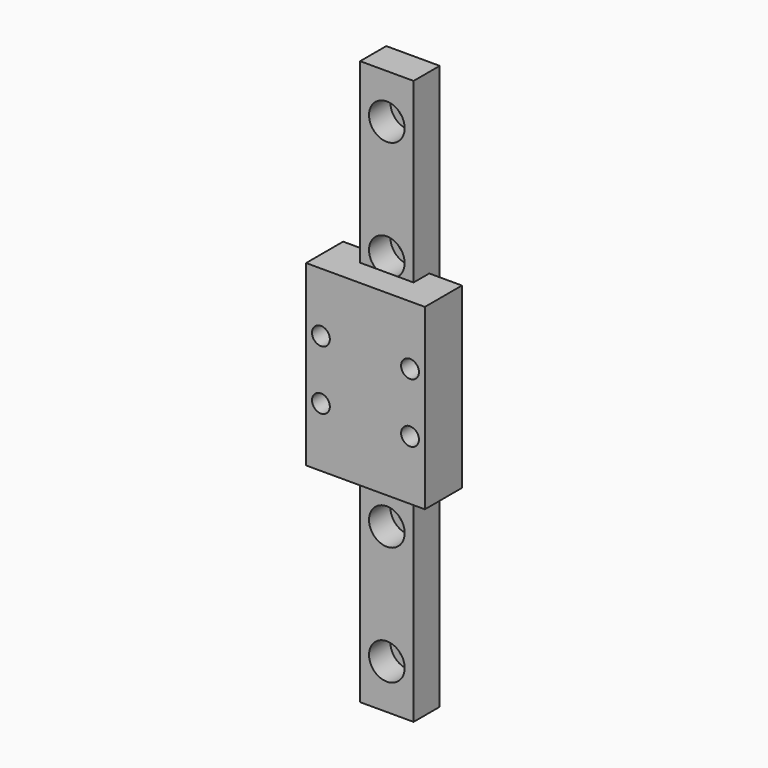
from build123d import *

# Parameters (mm, degrees)
F0_W      = 9
F0_H      = 95
F1_DEPTH  = 5.5
F2_R      = 1.75
F3_DEPTH  = 5.501
F2_R_2    = 3
F4_DEPTH  = 4.5
F6_W      = 20
F6_H      = 30
F7_DEPTH  = 7.8
F8_W      = 9
F8_H      = 30
F9_DEPTH  = 3.3
F10_R     = 1.5
F11_DEPTH = 3


with BuildPart() as f1:
    # F0 (on Front) → F1 (new body)
    with BuildSketch(Plane.XZ):
        Rectangle(F0_W, F0_H)
    extrude(amount=F1_DEPTH)

    # F2 (on face) → F3 (cut, through all)
    with BuildSketch(Plane.XZ.offset(5.5)):
        with Locations((0, 20)):
            Circle(F2_R)
        with Locations((0, 40)):
            Circle(F2_R)
        Circle(F2_R)
        with Locations((0, -20)):
            Circle(F2_R)
        with Locations((0, -40)):
            Circle(F2_R)
    extrude(amount=-F3_DEPTH, mode=Mode.SUBTRACT)

    # F2 (on face) → F4 (cut)
    with BuildSketch(Plane.XZ.offset(5.5)):
        with Locations((0, 40)):
            Circle(F2_R_2)
        with Locations((0, 40)):
            Circle(F2_R, mode=Mode.SUBTRACT)
        with Locations((0, 20)):
            Circle(F2_R_2)
        with Locations((0, 20)):
            Circle(F2_R, mode=Mode.SUBTRACT)
        Circle(F2_R_2)
        Circle(F2_R, mode=Mode.SUBTRACT)
        with Locations((0, -20)):
            Circle(F2_R_2)
        with Locations((0, -20)):
            Circle(F2_R, mode=Mode.SUBTRACT)
        with Locations((0, -40)):
            Circle(F2_R_2)
        with Locations((0, -40)):
            Circle(F2_R, mode=Mode.SUBTRACT)
    extrude(amount=-F4_DEPTH, mode=Mode.SUBTRACT)


with BuildPart() as f7:
    # F6 (on offset) → F7 (new body)
    with BuildSketch(Plane.XZ.offset(2.2)):
        with Locations((0, 2.6261353493)):
            Rectangle(F6_W, F6_H)
    extrude(amount=F7_DEPTH)

    # F8 (on face) → F9 (cut, through all)
    with BuildSketch(Plane(origin=(0, -2.2, 0), x_dir=(-1, 0, 0), z_dir=(0, 1, 0))):
        with Locations((0, 2.6261353493)):
            Rectangle(F8_W, F8_H)
    extrude(amount=-F9_DEPTH, mode=Mode.SUBTRACT)

    # F10 (on face) → F11 (cut)
    with BuildSketch(Plane.XZ.offset(10)):
        with Locations((-7.5, 7.6261353493)):
            Circle(F10_R)
        with Locations((7.5, 7.6261353493)):
            Circle(F10_R)
        with Locations((7.5, -2.3738646507)):
            Circle(F10_R)
        with Locations((-7.5, -2.3738646507)):
            Circle(F10_R)
    extrude(amount=-F11_DEPTH, mode=Mode.SUBTRACT)


solid = Compound([f1.part, f7.part])
